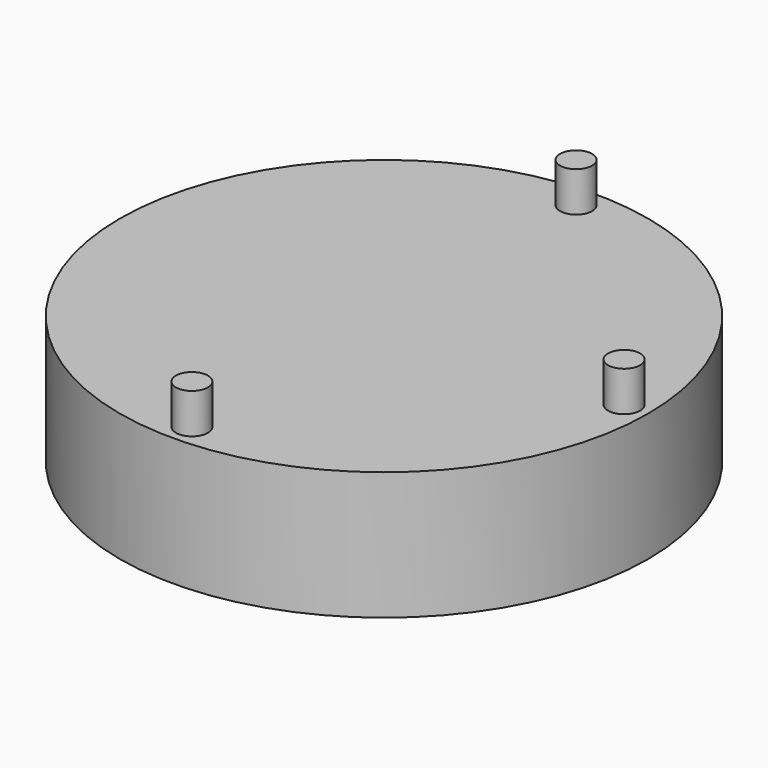
from build123d import *

# Parameters (mm, degrees)
F0_R     = 16.5
F1_DEPTH = 8
F2_R     = 1.05
F3_DEPTH = 2.5
F4_R     = 1
F5_DEPTH = 2.5


with BuildPart() as f1:
    # F0 (on Top) → F1 (new body)
    with BuildSketch(Plane.XY):
        Circle(F0_R)
    extrude(amount=F1_DEPTH)

    # F2 (on face) → F3 (cut)
    with BuildSketch(Plane(origin=(0, 0, 0), x_dir=(1, 0, 0), z_dir=(0, 0, -1))):
        with Locations((0, 15.05)):
            Circle(F2_R)
        with Locations((15, 0.05)):
            Circle(F2_R)
        with Locations((0, -14.95)):
            Circle(F2_R)
    extrude(amount=-F3_DEPTH, mode=Mode.SUBTRACT)

    # F4 (on face) → F5 (join)
    with BuildSketch(Plane.XY.offset(8)):
        with Locations((0, 15)):
            Circle(F4_R)
        with Locations((15, 0)):
            Circle(F4_R)
        with Locations((0, -15)):
            Circle(F4_R)
    extrude(amount=F5_DEPTH)


solid = f1.part
